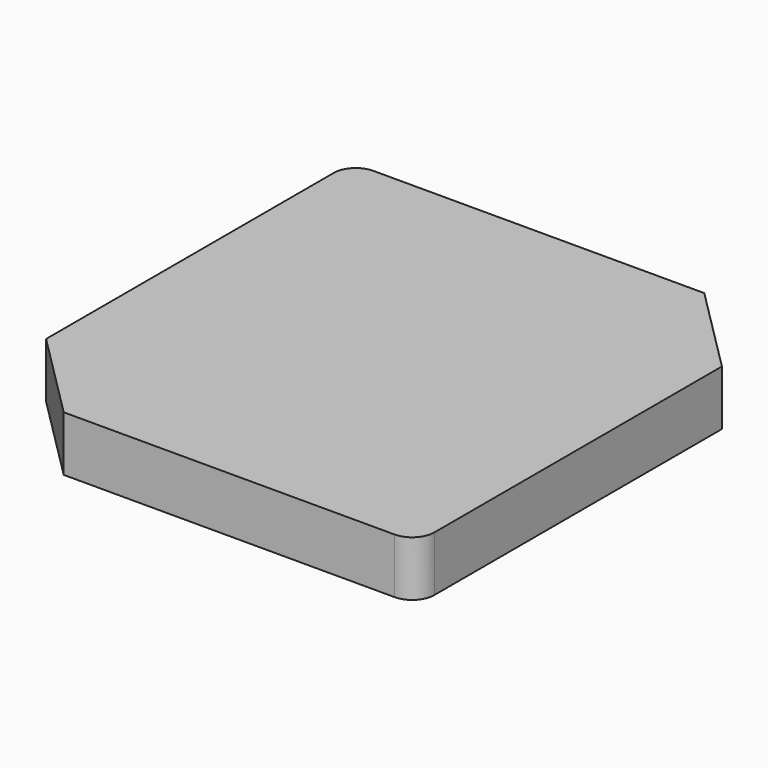
from build123d import *

# Parameters (mm, degrees)
F0_W     = 69
F0_H     = 69
F1_DEPTH = 25
F2_R     = 10
F3_R     = 10


with BuildPart() as f1:
    # F0 (on Top) → F1 (new body)
    with BuildSketch(Plane.XY):
        with BuildLine():
            Line((100, 66.5), (60, 106.5))
            Line((60, 106.5), (-100, 106.5))
            Line((-100, 106.5), (-100, -40.097934))
            ThreePointArc((-100, -40.097934), (-72.843769, -42.046339), (-46, -37.5))
            ThreePointArc((-46, -37.5), (2.288213, -8.788213), (31, 39.5))
            Line((31, 39.5), (100, 39.5))
            Line((100, 39.5), (100, 63.5))
            Line((100, 63.5), (100, 66.5))
        make_face()
        with BuildLine():
            ThreePointArc((31, 39.5), (2.288213, -8.788213), (-46, -37.5))
            Line((-46, -37.5), (-46, -106.5))
            Line((-46, -106.5), (31, -106.5))
            Line((31, -106.5), (31, -37.5))
            Line((31, -37.5), (100, -37.5))
            Line((100, -37.5), (100, 39.5))
            Line((100, 39.5), (31, 39.5))
        make_face()
        with BuildLine():
            ThreePointArc((-46, -37.5), (-72.843769, -42.046339), (-100, -40.097934))
            Line((-100, -40.097934), (-100, -66.5))
            Line((-100, -66.5), (-60, -106.5))
            Line((-60, -106.5), (-46, -106.5))
            Line((-46, -106.5), (-46, -37.5))
        make_face()
        with Locations((65.5, -72)):
            Rectangle(F0_W, F0_H)
    extrude(amount=F1_DEPTH)

    # F2
    f2_edges = [f1.edges().sort_by_distance(p)[0] for p in [
        (-100, 106.5, 12.5),
    ]]
    fillet(f2_edges, radius=F2_R)

    # F3
    f3_edges = [f1.edges().sort_by_distance(p)[0] for p in [
        (100, -106.5, 12.5),
    ]]
    fillet(f3_edges, radius=F3_R)


solid = f1.part
